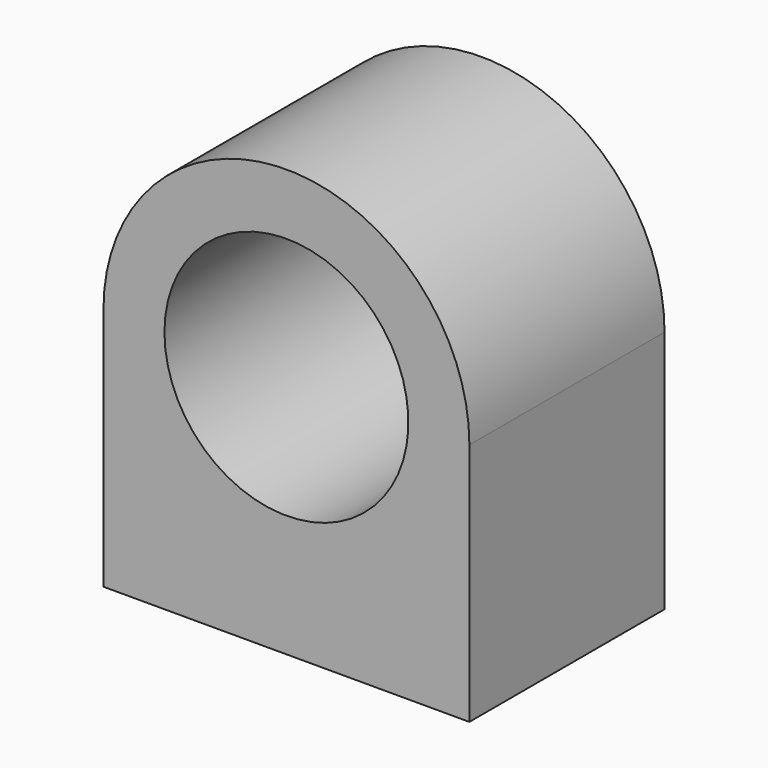
from build123d import *

# Parameters (mm, degrees)
F1_DEPTH = 1
F2_R     = 0.125
F3_DEPTH = 0.25


with BuildPart() as f1:
    # F0 (on Front) → F1 (new body)
    with BuildSketch(Plane.XZ):
        with BuildLine():
            Line((0, 1), (0, 0))
            Line((0, 0), (1.5, 0))
            Line((1.5, 0), (1.5, 1))
            ThreePointArc((1.5, 1), (0.75, 0.25), (0, 1))
        make_face()
        with BuildLine():
            ThreePointArc((1.5, 1), (0.75, 1.75), (0, 1))
            Line((0, 1), (0.25, 1))
            ThreePointArc((0.25, 1), (0.75, 1.5), (1.25, 1))
            Line((1.25, 1), (1.5, 1))
        make_face()
        with BuildLine():
            Line((0.25, 1), (0, 1))
            ThreePointArc((0, 1), (0.75, 0.25), (1.5, 1))
            Line((1.5, 1), (1.25, 1))
            ThreePointArc((1.25, 1), (0.75, 0.5), (0.25, 1))
        make_face()
    extrude(amount=F1_DEPTH)

    # F2 (on face) → F3 (cut)
    with BuildSketch(Plane(origin=(0, 0, 0), x_dir=(1, 0, 0), z_dir=(0, 0, -1))):
        with Locations((1.25, 0.5)):
            Circle(F2_R)
        with Locations((0.25, 0.5)):
            Circle(F2_R)
    extrude(amount=-F3_DEPTH, mode=Mode.SUBTRACT)


solid = f1.part
